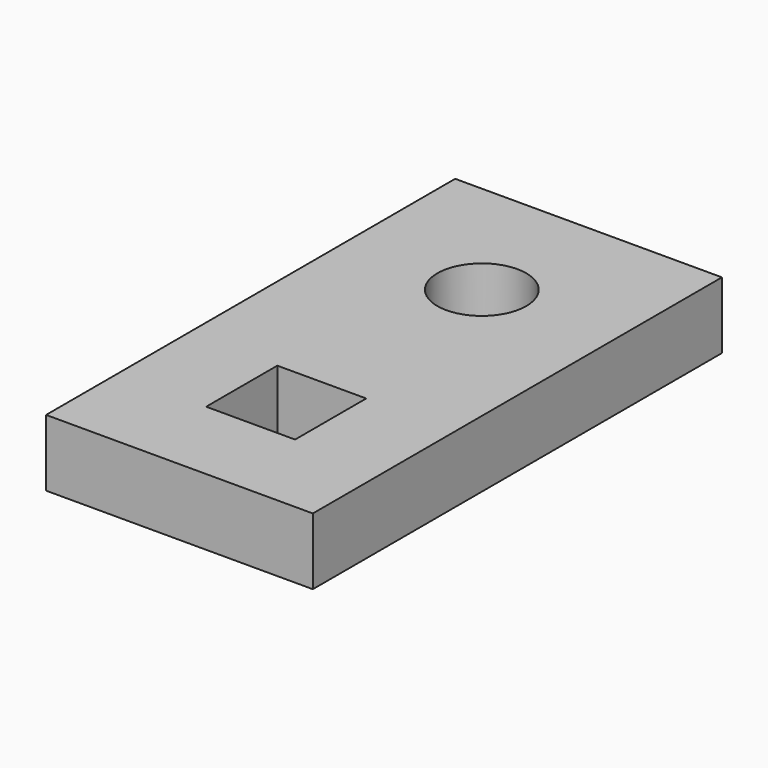
from build123d import *

# Parameters (mm, degrees)
F0_W     = 76.190904
F0_H     = 19.05
F1_DEPTH = 146.05
F2_W     = 25.4
F2_H     = 25.4
F3_DEPTH = 25.4
F4_R     = 12.7
F5_DEPTH = 25.4


with BuildPart() as f1:
    # F0 (on Front) → F1 (new body)
    with BuildSketch(Plane.XZ):
        with Locations((38.095452, 9.525)):
            Rectangle(F0_W, F0_H)
    extrude(amount=F1_DEPTH)

    # F2 (on face) → F3 (cut)
    with BuildSketch(Plane.XY.offset(19.05)):
        with Locations((38.1, -107.95)):
            Rectangle(F2_W, F2_H)
    extrude(amount=-F3_DEPTH, mode=Mode.SUBTRACT)

    # F4 (on face) → F5 (cut)
    with BuildSketch(Plane.XY.offset(19.05)):
        with Locations((38.1, -38.1)):
            Circle(F4_R)
    extrude(amount=-F5_DEPTH, mode=Mode.SUBTRACT)


solid = f1.part
